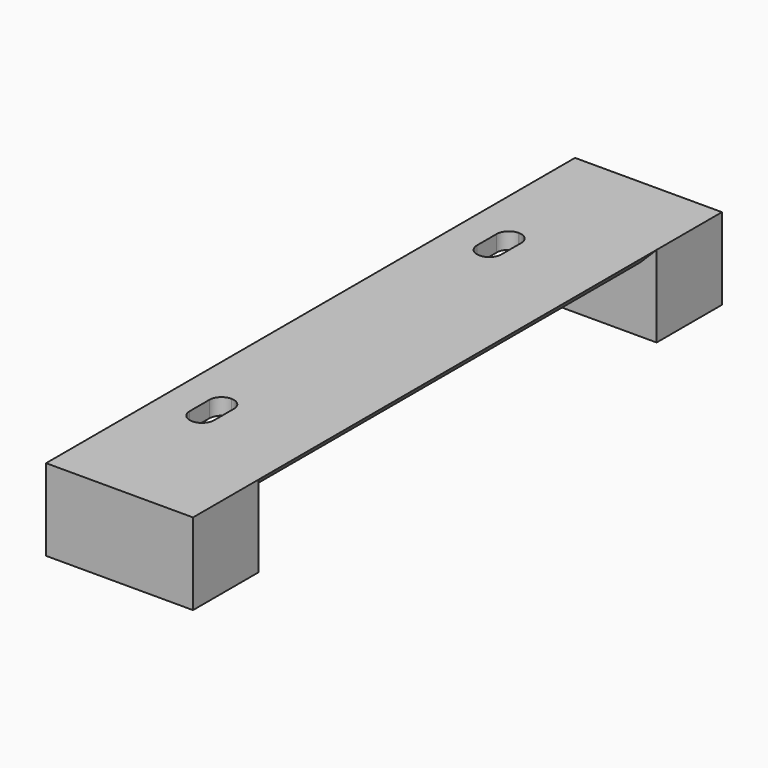
from build123d import *

# Parameters (mm, degrees)
BOX108_W        = 3
BOX108_H        = 6
BOX108_DEPTH    = 10
FILLET029_R     = 1.49
BOX107_W        = 3
BOX107_H        = 6
BOX107_DEPTH    = 10
FILLET028_R     = 1.49
BOX106_W        = 18
BOX106_H        = 81
BOX106_DEPTH    = 2
BOX105_W        = 18
BOX105_H        = 10
BOX105_DEPTH    = 10
BOX104_W        = 18
BOX104_H        = 10
BOX104_DEPTH    = 10
CHAMFER014_SIZE = 1.99


with BuildPart() as fillet029:
    # Box108 → Box108 (new body)
    with BuildSketch(Plane.XY):
        with Locations((1.5, 3)):
            Rectangle(BOX108_W, BOX108_H)
    extrude(amount=BOX108_DEPTH)

    # Fillet029
    fillet029_edges = [fillet029.edges().sort_by_distance(p)[0] for p in [
        (0, 0, 5),
        (0, 6, 5),
        (3, 0, 5),
        (3, 6, 5),
    ]]
    fillet(fillet029_edges, radius=FILLET029_R)


with BuildPart() as fillet029_1:
    # Fillet029 placement: moved
    add(fillet029.part.moved(Location((31, 59.5, -6))))


with BuildPart() as fusion133:
    # Box107 → Box107 (new body)
    with BuildSketch(Plane.XY):
        with Locations((1.5, 3)):
            Rectangle(BOX107_W, BOX107_H)
    extrude(amount=BOX107_DEPTH)

    # Fillet028
    fillet028_edges = [fusion133.edges().sort_by_distance(p)[0] for p in [
        (0, 0, 5),
        (0, 6, 5),
        (3, 0, 5),
        (3, 6, 5),
    ]]
    fillet(fillet028_edges, radius=FILLET028_R)


with BuildPart() as fusion133_1:
    # Fillet028 placement: moved
    add(fusion133.part.moved(Location((31, 15.5, -6))))

    # Fusion133: union Fillet029
    add(fillet029_1.part)


with BuildPart() as cube078:
    # Box106 → Box106 (new body)
    with BuildSketch(Plane(origin=(27, 0, -2), x_dir=(1, 0, 0), z_dir=(0, 0, 1))):
        with Locations((9, 40.5)):
            Rectangle(BOX106_W, BOX106_H)
    extrude(amount=BOX106_DEPTH)


with BuildPart() as cube077:
    # Box105 → Box105 (new body)
    with BuildSketch(Plane(origin=(27, 71, -10), x_dir=(1, 0, 0), z_dir=(0, 0, 1))):
        with Locations((9, 5)):
            Rectangle(BOX105_W, BOX105_H)
    extrude(amount=BOX105_DEPTH)


with BuildPart() as kipper_frame_missing_part:
    # Box104 → Box104 (new body)
    with BuildSketch(Plane(origin=(27, 0, -10), x_dir=(1, 0, 0), z_dir=(0, 0, 1))):
        with Locations((9, 5)):
            Rectangle(BOX104_W, BOX104_H)
    extrude(amount=BOX104_DEPTH)

    # Fusion132: union Cube078, Cube077
    add(cube078.part)
    add(cube077.part)

    # Cut125: cut Fusion133
    add(fusion133_1.part, mode=Mode.SUBTRACT)

    # Chamfer014
    chamfer014_edges = [kipper_frame_missing_part.edges().sort_by_distance(p)[0] for p in [
        (27, 40.5, -2),
        (45, 40.5, -2),
    ]]
    chamfer(chamfer014_edges, length=CHAMFER014_SIZE)


with BuildPart() as kipper_frame_missing_part_1:
    # Chamfer014 placement: moved
    add(kipper_frame_missing_part.part.moved(Location((0, -0.5, 0))))


solid = kipper_frame_missing_part_1.part
